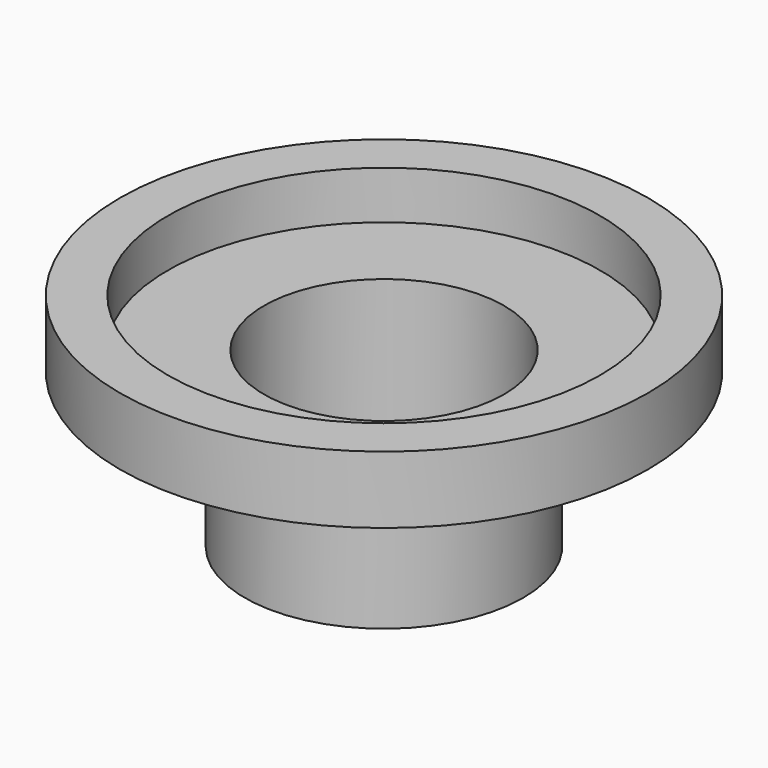
from build123d import *

# Parameters (mm, degrees)
SKETCH_R        = 27.5
PAD_DEPTH       = 7
SKETCH001_R     = 12.5
POCKET_DEPTH    = 7.001
SKETCH002_R     = 22.5
POCKET001_DEPTH = 5
SKETCH003_R     = 14.5
PAD001_DEPTH    = 16
SKETCH004_R     = 12.5
POCKET002_DEPTH = 23.001


with BuildPart() as part:
    # Sketch → Pad (new body)
    with BuildSketch(Plane.XY):
        Circle(SKETCH_R)
    extrude(amount=PAD_DEPTH)

    # Sketch001 (on Face3 of Pad) → Pocket (cut, through all)
    with BuildSketch(Plane.XY.offset(7)):
        Circle(SKETCH001_R)
    extrude(amount=-POCKET_DEPTH, mode=Mode.SUBTRACT)

    # Sketch002 (on Face3 of Pocket) → Pocket001 (cut)
    with BuildSketch(Plane.XY.offset(7)):
        Circle(SKETCH002_R)
    extrude(amount=-POCKET001_DEPTH, mode=Mode.SUBTRACT)

    # Sketch003 → Pad001 (join)
    with BuildSketch(Plane.XY):
        Circle(SKETCH003_R)
    extrude(amount=-PAD001_DEPTH)

    # Sketch004 (on Face6 of Pad001) → Pocket002 (cut, through all)
    with BuildSketch(Plane(origin=(0, 0, -16), x_dir=(1, 0, 0), z_dir=(0, 0, -1))):
        Circle(SKETCH004_R)
    extrude(amount=-POCKET002_DEPTH, mode=Mode.SUBTRACT)


solid = part.part
